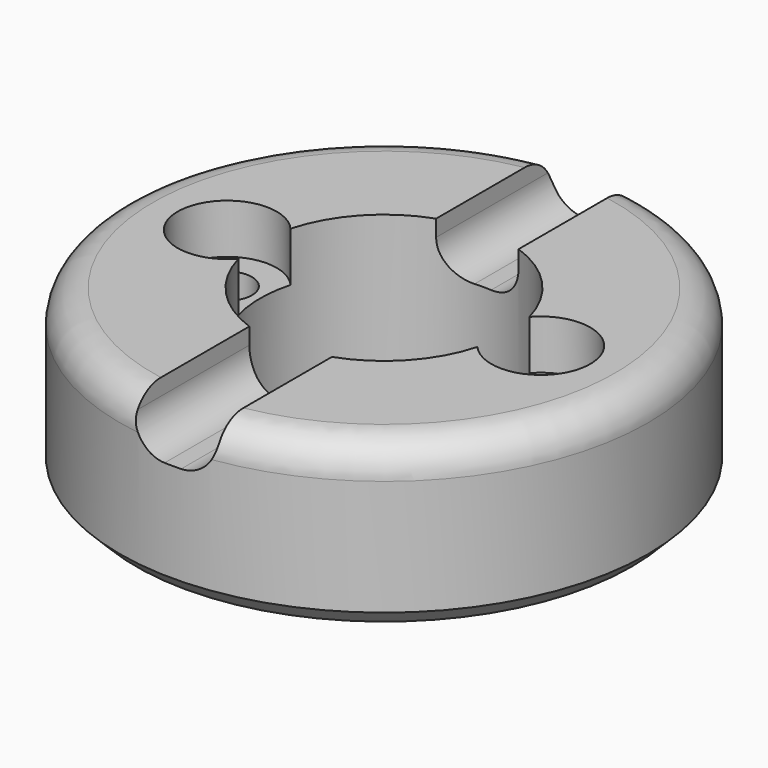
from build123d import *

# Parameters (mm, degrees)
SKETCH_R        = 16
SKETCH_R_2      = 7.5
PAD_DEPTH       = 10
SKETCH001_R     = 1.5
POCKET_DEPTH    = 10.001
SKETCH002_W     = 5
SKETCH002_H     = 40
POCKET001_DEPTH = 3
FILLET_R        = 2
FILLET001_R     = 2
CHAMFER_SIZE    = 1
SKETCH003_R     = 3
POCKET002_DEPTH = 3


with BuildPart() as part:
    # Sketch → Pad (new body)
    with BuildSketch(Plane.XY):
        Circle(SKETCH_R)
        Circle(SKETCH_R_2, mode=Mode.SUBTRACT)
    extrude(amount=PAD_DEPTH)

    # Sketch001 (on Face4 of Pad) → Pocket (cut, through all)
    with BuildSketch(Plane.XY.offset(10)):
        with Locations((9.5, 0)):
            Circle(SKETCH001_R)
        with Locations((-9.5, 0)):
            Circle(SKETCH001_R)
    extrude(amount=-POCKET_DEPTH, mode=Mode.SUBTRACT)

    # Sketch002 (on Face3 of Pocket) → Pocket001 (cut)
    with BuildSketch(Plane.XY.offset(10)):
        Rectangle(SKETCH002_W, SKETCH002_H)
    extrude(amount=-POCKET001_DEPTH, mode=Mode.SUBTRACT)

    # Fillet
    fillet_edges = [part.edges().sort_by_distance(p)[0] for p in [
        (-2.5, 11.437274, 7),
        (2.5, 11.437274, 7),
        (2.5, -11.437274, 7),
        (-2.5, -11.437274, 7),
    ]]
    fillet(fillet_edges, radius=FILLET_R)

    # Fillet001
    fillet001_edges = [part.edges().sort_by_distance(p)[0] for p in [
        (12.165525, -10.392305, 10),
        (12.165525, 10.392305, 10),
        (-16, 0, 10),
    ]]
    fillet(fillet001_edges, radius=FILLET001_R)

    # Chamfer
    chamfer_edges = [part.edges().sort_by_distance(p)[0] for p in [
        (-16, 0, 0),
    ]]
    chamfer(chamfer_edges, length=CHAMFER_SIZE)

    # Sketch003 (on Face19 of Chamfer) → Pocket002 (cut)
    with BuildSketch(Plane.XY.offset(10)):
        with Locations((-9.5, 0)):
            Circle(SKETCH003_R)
        with Locations((9.5, 0)):
            Circle(SKETCH003_R)
    extrude(amount=-POCKET002_DEPTH, mode=Mode.SUBTRACT)


solid = part.part
